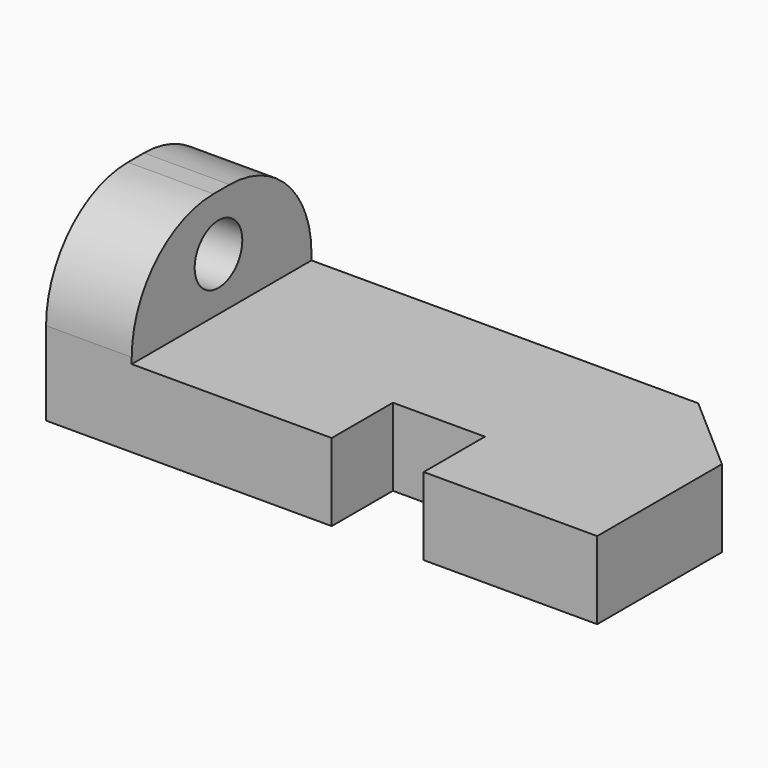
from build123d import *

# Parameters (mm, degrees)
F1_DEPTH = 30.988
F2_W     = 12.6881152391
F2_H     = 10.5545610582
F3_DEPTH = 25.4
F4_DEPTH = 25.4
F5_R     = 4.1061921306
F6_DEPTH = 25.4
F7_R     = 14.1038356314


with BuildPart() as f1:
    # F0 (on Front) → F1 (new body)
    with BuildSketch(Plane.XZ):
        Polygon((11.8142822757, 0), (0, 0), (0, -25.6347749382), (76.0126635432, -25.6347749382), (76.0126635432, -14.9350436404), (11.8142822757, -14.9350436404), align=None)
    extrude(amount=F1_DEPTH)

    # F2 (on face) → F3 (cut)
    with BuildSketch(Plane.XY.offset(-14.9350436404)):
        with Locations((45.7378029823, -25.7107194709)):
            Rectangle(F2_W, F2_H)
    extrude(amount=-F3_DEPTH, mode=Mode.SUBTRACT)

    # F2 (on face) → F4 (cut)
    with BuildSketch(Plane.XY.offset(-14.9350436404)):
        Polygon((76.0126635432, 0), (65.1537999511, 0), (76.0126635432, -9.4870273024), align=None)
        with Locations((45.7378029823, -25.7107194709)):
            Rectangle(F2_W, F2_H)
    extrude(amount=-F4_DEPTH, mode=Mode.SUBTRACT)

    # F5 (on face) → F6 (cut)
    with BuildSketch(Plane.YZ.offset(11.8142822757)):
        with Locations((-16.0313341767, -7.6476014219)):
            Circle(F5_R)
    extrude(amount=-F6_DEPTH, mode=Mode.SUBTRACT)

    # F7
    f7_edges = [f1.edges().sort_by_distance(p)[0] for p in [
        (5.907141, -30.988, 0),
        (5.907141, 0, 0),
    ]]
    fillet(f7_edges, radius=F7_R)


solid = f1.part
